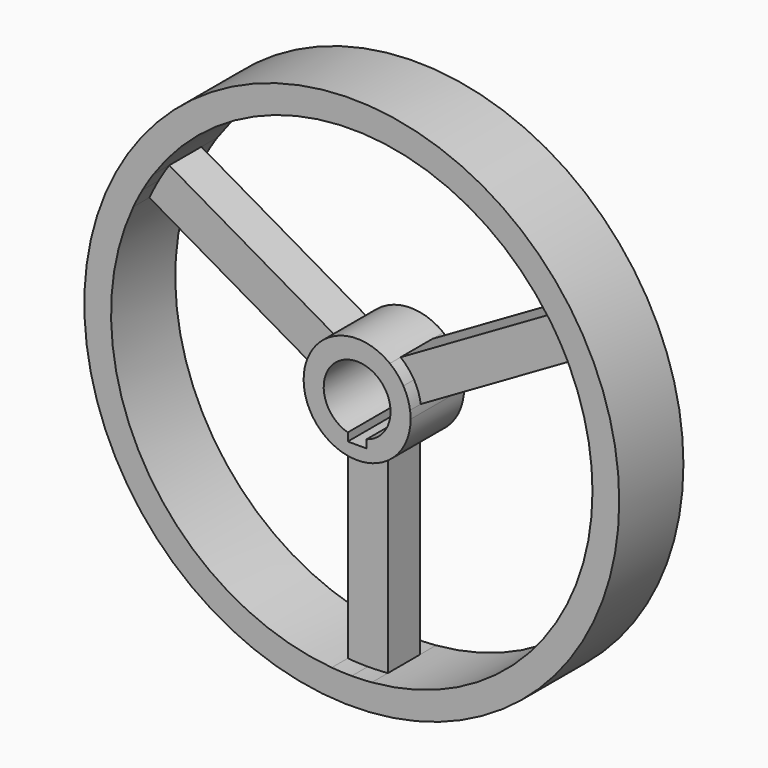
from build123d import *

# Parameters (mm, degrees)
F0_R     = 127
F1_DEPTH = 19.05
F2_DEPTH = 9.525
F3_DEPTH = 15.875


with BuildPart() as f1:
    # F0 (on Front) → F1 (new body, symmetric)
    with BuildSketch(Plane.XZ):
        Circle(F0_R)
        with BuildLine():
            ThreePointArc((103.36216, 48.792969), (111.532024, 25.001951), (114.3, 0))
            ThreePointArc((114.3, 0), (84.122522, -77.381466), (9.525, -113.902434))
            ThreePointArc((9.525, -113.902434), (4.766647, -114.200565), (0, -114.3))
            ThreePointArc((0, -114.3), (-4.766647, -114.200565), (-9.525, -113.902434))
            ThreePointArc((-9.525, -113.902434), (-98.80411, -57.465102), (-103.713151, 48.042401))
            ThreePointArc((-103.713151, 48.042401), (-101.618792, 52.326963), (-99.347527, 56.520429))
            ThreePointArc((-99.347527, 56.520429), (-96.904651, 60.613353), (-94.293255, 64.600867))
            ThreePointArc((-94.293255, 64.600867), (-0.4141, 114.29925), (93.822695, 65.282401))
            ThreePointArc((93.822695, 65.282401), (96.463637, 61.312778), (98.936731, 57.236468))
            ThreePointArc((98.936731, 57.236468), (101.23751, 53.060875), (103.36216, 48.792969))
        make_face(mode=Mode.SUBTRACT)
    extrude(amount=F1_DEPTH, both=True)

    # F0 (on Front) → F2 (join, symmetric)
    with BuildSketch(Plane.XZ):
        with BuildLine():
            ThreePointArc((-99.347527, 56.520429), (-101.618792, 52.326963), (-103.713151, 48.042401))
            Line((-103.713151, 48.042401), (-25.251504, 2.742548))
            ThreePointArc((-25.251504, 2.742548), (-24.253461, 7.545171), (-22.350885, 12.066397))
            Line((-22.350885, 12.066397), (-99.347527, 56.520429))
        make_face()
        with BuildLine():
            Line((-16.235201, 19.534028), (-94.293255, 64.600867))
            ThreePointArc((-94.293255, 64.600867), (-96.904651, 60.613353), (-99.347527, 56.520429))
            Line((-99.347527, 56.520429), (-22.350885, 12.066397))
            ThreePointArc((-22.350885, 12.066397), (-19.651027, 16.093388), (-16.235201, 19.534028))
        make_face()
        with BuildLine():
            Line((21.94694, 12.786392), (98.936731, 57.236468))
            ThreePointArc((98.936731, 57.236468), (96.463637, 61.312778), (93.822695, 65.282401))
            Line((93.822695, 65.282401), (15.544171, 20.088274))
            ThreePointArc((15.544171, 20.088274), (19.09778, 16.746187), (21.94694, 12.786392))
        make_face()
        with BuildLine():
            Line((25.139146, 3.63089), (103.36216, 48.792969))
            ThreePointArc((103.36216, 48.792969), (101.23751, 53.060875), (98.936731, 57.236468))
            Line((98.936731, 57.236468), (21.94694, 12.786392))
            ThreePointArc((21.94694, 12.786392), (23.983967, 8.362376), (25.139146, 3.63089))
        make_face()
        with BuildLine():
            ThreePointArc((-9.525, -113.902434), (-4.766647, -114.200565), (0, -114.3))
            Line((0, -114.3), (0, -25.4))
            ThreePointArc((0, -25.4), (-4.851838, -24.932302), (-9.525, -23.54643))
            Line((-9.525, -23.54643), (-9.525, -113.902434))
        make_face()
        with BuildLine():
            ThreePointArc((0, -114.3), (4.766647, -114.200565), (9.525, -113.902434))
            Line((9.525, -113.902434), (9.525, -23.54643))
            ThreePointArc((9.525, -23.54643), (4.851838, -24.932302), (0, -25.4))
            Line((0, -25.4), (0, -114.3))
        make_face()
    extrude(amount=F2_DEPTH, both=True)

    # F0 (on Front) → F3 (join, symmetric)
    with BuildSketch(Plane.XZ):
        with BuildLine():
            ThreePointArc((25.4, 0), (25.334702, 1.820124), (25.139146, 3.63089))
            ThreePointArc((25.139146, 3.63089), (23.983967, 8.362376), (21.94694, 12.786392))
            ThreePointArc((21.94694, 12.786392), (19.09778, 16.746187), (15.544171, 20.088274))
            ThreePointArc((15.544171, 20.088274), (-0.44292, 25.396138), (-16.235201, 19.534028))
            ThreePointArc((-16.235201, 19.534028), (-19.651027, 16.093388), (-22.350885, 12.066397))
            ThreePointArc((-22.350885, 12.066397), (-24.253461, 7.545171), (-25.251504, 2.742548))
            ThreePointArc((-25.251504, 2.742548), (-21.797451, -13.039598), (-9.525, -23.54643))
            ThreePointArc((-9.525, -23.54643), (-4.851838, -24.932302), (0, -25.4))
            ThreePointArc((0, -25.4), (4.851838, -24.932302), (9.525, -23.54643))
            ThreePointArc((9.525, -23.54643), (21.060567, -14.199032), (25.4, 0))
        make_face()
        with BuildLine():
            ThreePointArc((-4.445, -15.24), (0, 15.875), (4.445, -15.24))
            Line((4.445, -15.24), (4.445, -19.05))
            Line((4.445, -19.05), (-4.445, -19.05))
            Line((-4.445, -19.05), (-4.445, -15.24))
        make_face(mode=Mode.SUBTRACT)
    extrude(amount=F3_DEPTH, both=True)


solid = f1.part
